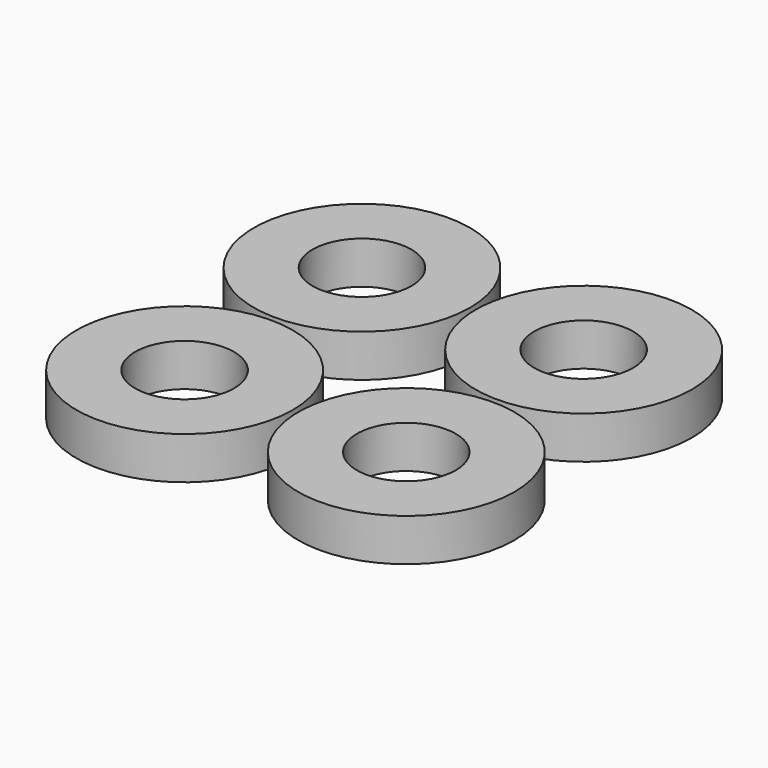
from build123d import *

# Parameters (mm, degrees)
F2_R     = 14
F2_R_2   = 6.4
F3_DEPTH = 5.5


with BuildPart() as f3:
    # F2 (on Top) → F3 (new body)
    with BuildSketch(Plane.XY):
        Circle(F2_R)
        Circle(F2_R_2, mode=Mode.SUBTRACT)
    extrude(amount=F3_DEPTH)


with BuildPart() as f4_1:
    # F4: copy of F3
    add(f3.part.moved(Location((28.7, 0, 0))))


with BuildPart() as f5_1:
    # F5: copy of F4_1
    add(f4_1.part.moved(Location((0, 28.7, 0))))


with BuildPart() as f6_1:
    # F6: copy of F3
    add(f3.part.moved(Location((0, 28.7, 0))))


solid = Compound([f3.part, f4_1.part, f5_1.part, f6_1.part])
